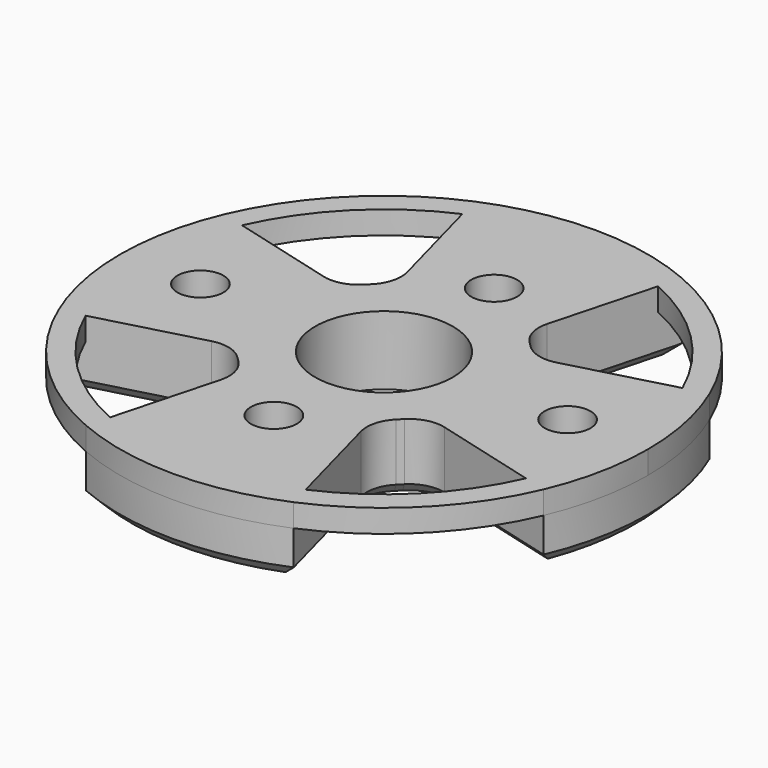
from build123d import *

# Parameters (mm, degrees)
SKETCH002_R                = 11.5
SKETCH002_R_2              = 10.5
EXTRUDE005_DEPTH           = 1
EXTRUDE004_DEPTH           = 3
EXTRUDE004_PLACEMENT_ANGLE = 90
EXTRUDE002_DEPTH           = 3
EXTRUDE002_PLACEMENT_ANGLE = 90
EXTRUDE001_DEPTH           = 3
EXTRUDE003_DEPTH           = 3
EXTRUDE003_PLACEMENT_ANGLE = 180
SKETCH_R                   = 11.5
SKETCH_R_2                 = 1
SKETCH_R_3                 = 3
EXTRUDE_DEPTH              = 3
FILLET_R                   = 1.49
CHAMFER_SIZE               = 0.5
CHAMFER001_SIZE            = 0.5


with BuildPart() as extrude005:
    # Sketch002 (on Face4 of Cut) → Extrude005 (new body)
    with BuildSketch(Plane.XY.offset(3)):
        Circle(SKETCH002_R)
        Circle(SKETCH002_R_2, mode=Mode.SUBTRACT)
    extrude(amount=-EXTRUDE005_DEPTH)


with BuildPart() as extrude004:
    # Sketch001 (on Face7 of Extrude) → Extrude004 (new body)
    with BuildSketch(Plane(origin=(0, 0, 0), x_dir=(1, 0, 0), z_dir=(0, 0, -1))):
        Polygon((-11.970047, 4.898979), (-4.242641, 2.828427), (-2.828427, 4.242641), (-4.898979, 11.970047), align=None)
    extrude(amount=-EXTRUDE004_DEPTH)


with BuildPart() as extrude004_1:
    # Extrude004 placement: moved
    add(extrude004.part.rotate(Axis((0, 0, 0), (0, 0, -1)), EXTRUDE004_PLACEMENT_ANGLE))


with BuildPart() as extrude002:
    # Sketch001 (on Face7 of Extrude) → Extrude002 (new body)
    with BuildSketch(Plane(origin=(0, 0, 0), x_dir=(1, 0, 0), z_dir=(0, 0, -1))):
        Polygon((-11.970047, 4.898979), (-4.242641, 2.828427), (-2.828427, 4.242641), (-4.898979, 11.970047), align=None)
    extrude(amount=-EXTRUDE002_DEPTH)


with BuildPart() as extrude002_1:
    # Extrude002 placement: moved
    add(extrude002.part.rotate(Axis((0, 0, 0), (0, 0, 1)), EXTRUDE002_PLACEMENT_ANGLE))


with BuildPart() as extrude001:
    # Sketch001 (on Face7 of Extrude) → Extrude001 (new body)
    with BuildSketch(Plane(origin=(0, 0, 0), x_dir=(1, 0, 0), z_dir=(0, 0, -1))):
        Polygon((-11.970047, 4.898979), (-4.242641, 2.828427), (-2.828427, 4.242641), (-4.898979, 11.970047), align=None)
    extrude(amount=-EXTRUDE001_DEPTH)


with BuildPart() as fusion:
    # Sketch001 (on Face7 of Extrude) → Extrude003 (new body)
    with BuildSketch(Plane(origin=(0, 0, 0), x_dir=(1, 0, 0), z_dir=(0, 0, -1))):
        Polygon((-11.970047, 4.898979), (-4.242641, 2.828427), (-2.828427, 4.242641), (-4.898979, 11.970047), align=None)
    extrude(amount=-EXTRUDE003_DEPTH)


with BuildPart() as fusion_1:
    # Extrude003 placement: moved
    add(fusion.part.rotate(Axis((0, 0, 0), (0, 0, 1)), EXTRUDE003_PLACEMENT_ANGLE))

    # Fusion: union Extrude004, Extrude002, Extrude001
    add(extrude004_1.part)
    add(extrude002_1.part)
    add(extrude001.part)


with BuildPart() as fusion002:
    # Sketch → Extrude (new body)
    with BuildSketch(Plane.XY):
        Circle(SKETCH_R)
        with Locations((0, 6)):
            Circle(SKETCH_R_2, mode=Mode.SUBTRACT)
        with Locations((-8, 0)):
            Circle(SKETCH_R_2, mode=Mode.SUBTRACT)
        with Locations((0, -6)):
            Circle(SKETCH_R_2, mode=Mode.SUBTRACT)
        with Locations((8, 0)):
            Circle(SKETCH_R_2, mode=Mode.SUBTRACT)
        Circle(SKETCH_R_3, mode=Mode.SUBTRACT)
    extrude(amount=EXTRUDE_DEPTH)

    # Cut: cut Fusion
    add(fusion_1.part, mode=Mode.SUBTRACT)

    # Fillet
    fillet_edges = [fusion002.edges().sort_by_distance(p)[0] for p in [
        (4.242641, 2.828427, 1.5),
        (4.242641, -2.828427, 1.5),
        (2.828427, -4.242641, 1.5),
        (-2.828427, -4.242641, 1.5),
        (-4.242641, -2.828427, 1.5),
        (-4.242641, 2.828427, 1.5),
        (-2.828427, 4.242641, 1.5),
        (2.828427, 4.242641, 1.5),
    ]]
    fillet(fillet_edges, radius=FILLET_R)

    # Chamfer
    chamfer_edges = [fusion002.edges().sort_by_distance(p)[0] for p in [
        (7.823063, -3.787798, 0),
        (4.302299, -3.051077, 0),
        (3.535534, -3.535534, 0),
        (3.051077, -4.302299, 0),
        (7.823063, 3.787798, 0),
        (3.787798, -7.823063, 0),
        (4.302299, 3.051077, 0),
        (3.535534, 3.535534, 0),
        (-3.787798, -7.823063, 0),
        (3.051077, 4.302299, 0),
        (-3.051077, -4.302299, 0),
        (3.787798, 7.823063, 0),
        (-3.535534, -3.535534, 0),
        (-4.302299, -3.051077, 0),
        (-3.787798, 7.823063, 0),
        (-7.823063, -3.787798, 0),
        (-3.051077, 4.302299, 0),
        (-3.535534, 3.535534, 0),
        (-7.823063, 3.787798, 0),
        (-4.302299, 3.051077, 0),
    ]]
    chamfer(chamfer_edges, length=CHAMFER_SIZE)

    # Chamfer001
    chamfer001_edges = [fusion002.edges().sort_by_distance(p)[0] for p in [
        (11.313619, -2.062044, 0),
        (11.313619, 2.062044, 0),
        (0, -11.5, 0),
        (0, 11.5, 0),
        (-11.5, 0, 0),
    ]]
    chamfer(chamfer001_edges, length=CHAMFER001_SIZE)

    # Fusion002: union Extrude005
    add(extrude005.part)


solid = fusion002.part
